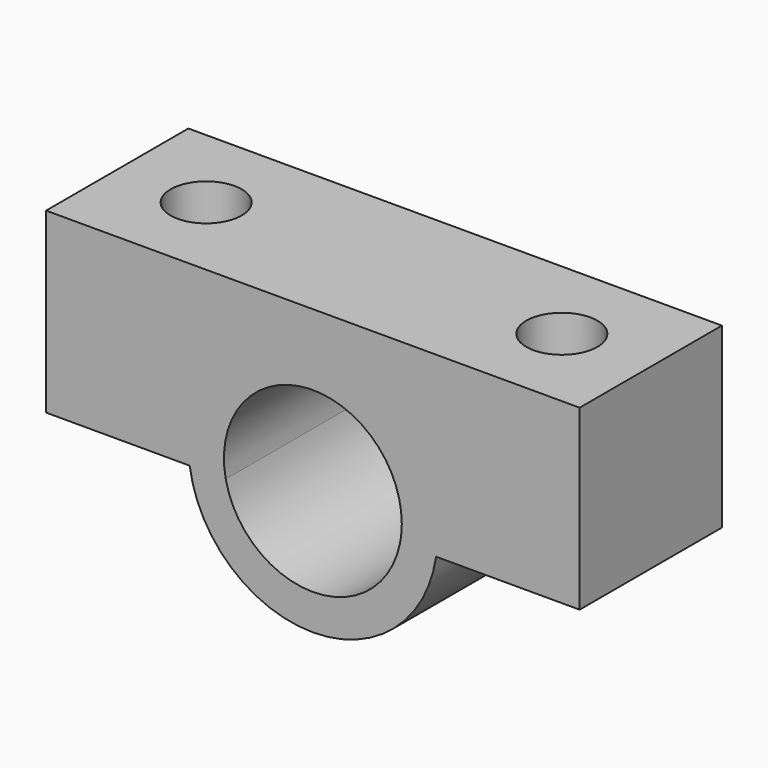
from build123d import *

# Parameters (mm, degrees)
F1_DEPTH = 100
F3_D     = 40


with BuildPart() as f1:
    # F0 (on Front) → F1 (new body)
    with BuildSketch(Plane.XZ):
        with BuildLine():
            Line((151.65843, 56.57242), (-148.34157, 56.57242))
            Line((-148.34157, 56.57242), (-148.34157, -43.42758))
            Line((-148.34157, -43.42758), (-67.623602, -43.42758))
            ThreePointArc((-67.623602, -43.42758), (1.65843, -103.42758), (70.940463, -43.42758))
            Line((70.940463, -43.42758), (151.65843, -43.42758))
            Line((151.65843, -43.42758), (151.65843, 56.57242))
        make_face()
        with BuildLine():
            ThreePointArc((-47.331365, -43.42758), (-3.367018, 16.319228), (51.65843, -33.42758))
            ThreePointArc((51.65843, -33.42758), (51.405238, -38.453028), (50.648225, -43.42758))
            ThreePointArc((50.648225, -43.42758), (1.65843, -83.42758), (-47.331365, -43.42758))
        make_face(mode=Mode.SUBTRACT)
    extrude(amount=F1_DEPTH)

    # F3 (through all)
    with Locations(Plane.XY.offset(56.57242)):
        with Locations((-98.34157, -50), (101.65843, -50)):
            Hole(F3_D / 2)


solid = f1.part
